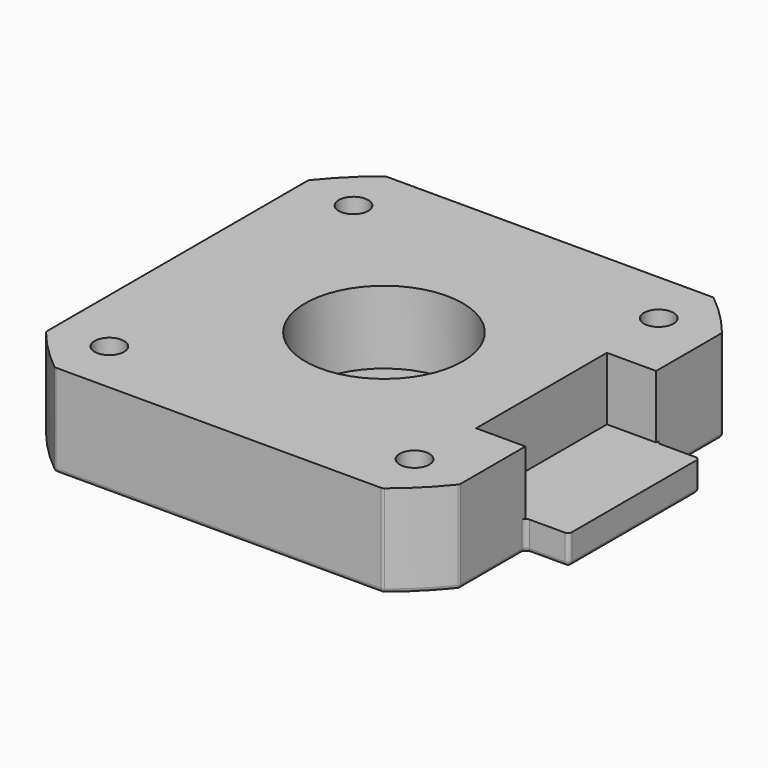
from build123d import *

# Parameters (mm, degrees)
SKETCH_R        = 4.5
SKETCH_R_2      = 1.5
PAD_DEPTH       = 9.4
SKETCH002_R     = 3.2
POCKET_DEPTH    = 3
SKETCH003_R     = 8
POCKET001_DEPTH = 8
SKETCH004_W     = 16.6
SKETCH004_H     = 6.4
POCKET002_DEPTH = 10
FILLET_R        = 0.4
FILLET001_R     = 0.4


with BuildPart() as part:
    # Sketch → Pad (new body)
    with BuildSketch(Plane.XY):
        with BuildLine():
            ThreePointArc((-16.650526, 21), (-18.950462, 18.950462), (-21, 16.650526))
            Line((-21, 16.650526), (-21, -16.650526))
            ThreePointArc((-21, -16.650526), (-18.950462, -18.950462), (-16.650526, -21))
            Line((-16.650526, -21), (16.650526, -21))
            ThreePointArc((16.650526, -21), (18.950462, -18.950462), (21, -16.650526))
            Line((21, -8.3), (21, -16.650526))
            Line((25.4, -8.3), (21, -8.3))
            Line((25.4, 8.3), (25.4, -8.3))
            Line((21, 8.3), (25.4, 8.3))
            Line((21, 16.650526), (21, 8.3))
            ThreePointArc((21, 16.650526), (18.950462, 18.950462), (16.650526, 21))
            Line((-16.650526, 21), (16.650526, 21))
        make_face()
        Circle(SKETCH_R, mode=Mode.SUBTRACT)
        with Locations((-15.5, 15.5)):
            Circle(SKETCH_R_2, mode=Mode.SUBTRACT)
        with Locations((15.5, 15.5)):
            Circle(SKETCH_R_2, mode=Mode.SUBTRACT)
        with Locations((15.5, -15.5)):
            Circle(SKETCH_R_2, mode=Mode.SUBTRACT)
        with Locations((-15.5, -15.5)):
            Circle(SKETCH_R_2, mode=Mode.SUBTRACT)
    extrude(amount=PAD_DEPTH)

    # Sketch002 → Pocket (cut)
    with BuildSketch(Plane.XY):
        with Locations((-15.5, 15.5)):
            Circle(SKETCH002_R)
        with Locations((15.5, 15.5)):
            Circle(SKETCH002_R)
        with Locations((15.5, -15.5)):
            Circle(SKETCH002_R)
        with Locations((-15.5, -15.5)):
            Circle(SKETCH002_R)
    extrude(amount=POCKET_DEPTH, mode=Mode.SUBTRACT)

    # Sketch003 → Pocket001 (cut)
    with BuildSketch(Plane.XY.offset(10)):
        Circle(SKETCH003_R)
    extrude(amount=-POCKET001_DEPTH, mode=Mode.SUBTRACT)

    # Sketch004 → Pocket002 (cut)
    with BuildSketch(Plane.YZ.offset(26)):
        with Locations((0, 6.2)):
            Rectangle(SKETCH004_W, SKETCH004_H)
    extrude(amount=-POCKET002_DEPTH, mode=Mode.SUBTRACT)

    # Fillet
    fillet_edges = [part.edges().sort_by_distance(p)[0] for p in [
        (21, -8.3, 1.5),
        (21, 8.3, 1.5),
        (25.4, 8.3, 1.5),
        (25.4, -8.3, 1.5),
        (21, -16.650526, 4.7),
        (16.650526, -21, 4.7),
        (-16.650526, -21, 4.7),
        (-21, -16.650526, 4.7),
        (-21, 16.650526, 4.7),
        (-16.650526, 21, 4.7),
        (16.650526, 21, 4.7),
        (21, 16.650526, 4.7),
        (-18.7, 15.5, 0),
        (-18.7, -15.5, 0),
        (12.3, -15.5, 0),
        (12.3, 15.5, 0),
    ]]
    fillet(fillet_edges, radius=FILLET_R)

    # Fillet001
    fillet001_edges = [part.edges().sort_by_distance(p)[0] for p in [
        (18.950462, -18.950462, 0),
    ]]
    fillet(fillet001_edges, radius=FILLET001_R)


solid = part.part
